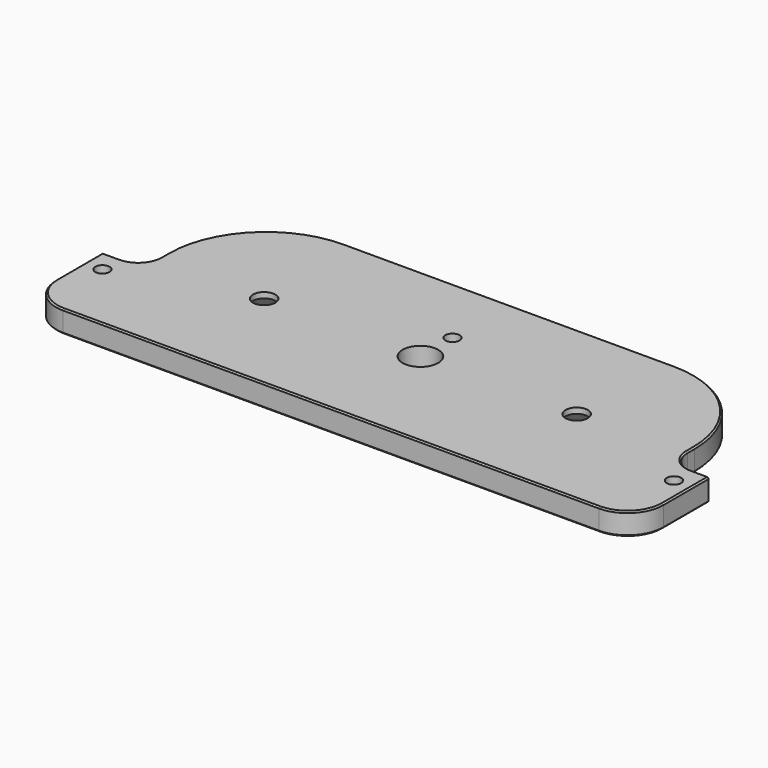
from build123d import *

# Parameters (mm, degrees)
F1_DEPTH        = 7.9375
F2_R            = 12.7
F3_R            = 7.9375
F4_R            = 34.925
F5_SIZE2        = 0.508
F5_SIZE         = 0.508
F7_D            = 12.7
F8_D            = 5.1054
F10_D           = 7.9375
F10_CSINK_D     = 19.05
F10_CSINK_ANGLE = 86


with BuildPart() as f1:
    # F0 (on Top) → F1 (new body)
    with BuildSketch(Plane.XY):
        Polygon((89.0313792884, 82.112026608), (-98.2936207116, 82.112026608), (-98.2936207116, 36.074526608), (-112.5811207116, 36.074526608), (-112.5811207116, 2.737026608), (103.3188792884, 2.737026608), (103.3188792884, 36.074526608), (89.0313792884, 36.074526608), align=None)
    extrude(amount=F1_DEPTH)

    # F2
    f2_edges = [f1.edges().sort_by_distance(p)[0] for p in [
        (-112.581121, 2.737027, 3.96875),
        (103.318879, 2.737027, 3.96875),
    ]]
    fillet(f2_edges, radius=F2_R)

    # F3
    f3_edges = [f1.edges().sort_by_distance(p)[0] for p in [
        (89.031379, 36.074527, 3.96875),
        (-98.293621, 36.074527, 3.96875),
    ]]
    fillet(f3_edges, radius=F3_R)

    # F4
    f4_edges = [f1.edges().sort_by_distance(p)[0] for p in [
        (-98.293621, 82.112027, 3.96875),
        (89.031379, 82.112027, 3.96875),
    ]]
    fillet(f4_edges, radius=F4_R)

    # F5
    f5_edges = [f1.edges().sort_by_distance(p)[0] for p in [
        (-4.631121, 2.737027, 7.9375),
        (-4.631121, 82.112027, 7.9375),
        (-4.631121, 2.737027, 0),
        (-4.631121, 82.112027, 0),
        (-112.581121, 36.074527, 3.96875),
        (103.318879, 36.074527, 3.96875),
    ]]
    chamfer(f5_edges, length=F5_SIZE, length2=F5_SIZE2)

    # F7 (through all)
    with Locations(Plane.XY.offset(7.9375)):
        with Locations((-4.6311207116, 42.437226608)):
            Hole(F7_D / 2)

    # F8 (through all)
    with Locations(Plane.XY.offset(7.9375)):
        with Locations((-4.6311207116, 56.712026608), (-106.2311207116, 28.137026608), (96.9688792884, 28.137026608)):
            Hole(F8_D / 2)

    # F10 (through all)
    with Locations(Plane(origin=(0, 0, 0), x_dir=(1, 0, 0), z_dir=(0, 0, -1))):
        with Locations((50.9313792884, -42.437226608), (-60.1936207116, -42.437226608)):
            CounterSinkHole(F10_D / 2, F10_CSINK_D / 2, counter_sink_angle=F10_CSINK_ANGLE)


solid = f1.part
